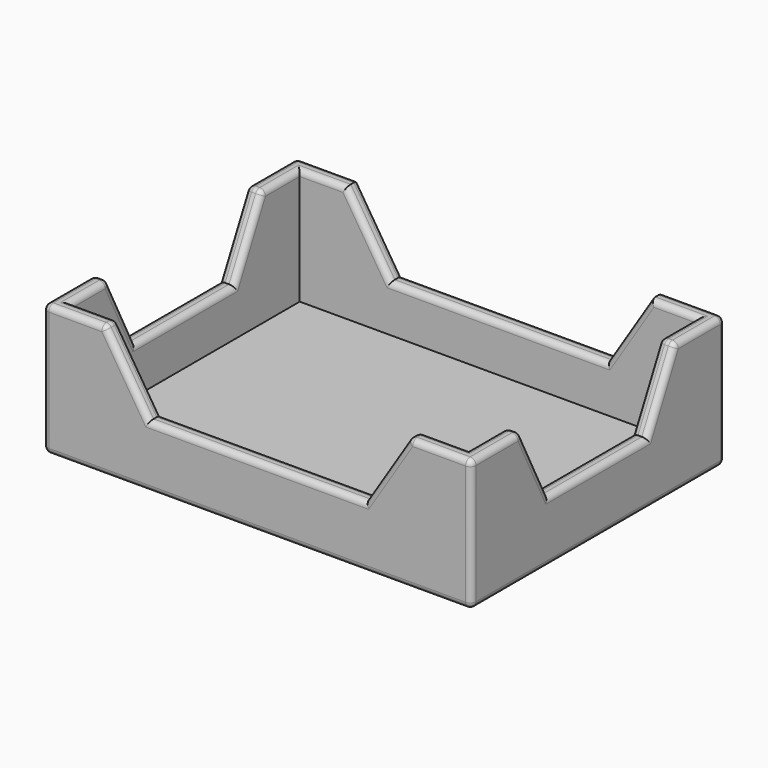
from build123d import *

# Parameters (mm, degrees)
F0_W     = 55.4
F0_H     = 41
F0_W_2   = 51.4
F0_H_2   = 37
F1_DEPTH = 15
F2_DEPTH = 2
F4_DEPTH = 41.001
F6_DEPTH = 55.401
F7_R     = 0.75


with BuildPart() as f1:
    # F0 (on Top) → F1 (new body)
    with BuildSketch(Plane.XY):
        Rectangle(F0_W, F0_H)
        Rectangle(F0_W_2, F0_H_2, mode=Mode.SUBTRACT)
    extrude(amount=F1_DEPTH)

    # F0 (on Top) → F2 (join)
    with BuildSketch(Plane.XY):
        Rectangle(F0_W, F0_H)
        Rectangle(F0_W_2, F0_H_2, mode=Mode.SUBTRACT)
        Rectangle(F0_W_2, F0_H_2)
    extrude(amount=-F2_DEPTH)

    # F3 (on face) → F4 (cut, through all)
    with BuildSketch(Plane.XZ.offset(20.5)):
        Polygon((19.7, 15), (-19.7, 15), (-14, 6), (14, 6), align=None)
    extrude(amount=-F4_DEPTH, mode=Mode.SUBTRACT)

    # F5 (on face) → F6 (cut, through all)
    with BuildSketch(Plane(origin=(-27.7, 0, 0), x_dir=(0, -1, 0), z_dir=(-1, 0, 0))):
        Polygon((12.5, 15), (-12.5, 15), (-8.0000100486, 6), (8.0000100486, 6), align=None)
    extrude(amount=-F6_DEPTH, mode=Mode.SUBTRACT)

    # F7
    f7_edges = [f1.edges().sort_by_distance(p)[0] for p in [
        (0, 20.5, 6),
        (16.85, 20.5, 10.5),
        (23.7, 20.5, 15),
        (27.7, 16.5, 15),
        (27.7, 20.5, 6.5),
        (-16.85, 20.5, 10.5),
        (-23.7, 20.5, 15),
        (-27.7, 20.5, 6.5),
        (-27.7, 16.5, 15),
        (-25.7, 15.5, 15),
        (-22.7, 18.5, 15),
        (-16.85, 18.5, 10.5),
        (0, 18.5, 6),
        (16.85, 18.5, 10.5),
        (22.7, 18.5, 15),
        (25.7, 15.5, 15),
        (26.7, 12.5, 15),
        (27.7, 10.250005, 10.5),
        (25.7, 10.250005, 10.5),
        (25.7, 0, 6),
        (27.7, 0, 6),
        (27.7, -10.250005, 10.5),
        (25.7, -10.250005, 10.5),
        (26.7, -12.5, 15),
        (27.7, -16.5, 15),
        (25.7, -15.5, 15),
        (22.7, -18.5, 15),
        (23.7, -20.5, 15),
        (27.7, -20.5, 6.5),
        (19.7, -19.5, 15),
        (16.85, -18.5, 10.5),
        (16.85, -20.5, 10.5),
        (0, -20.5, 6),
        (0, -18.5, 6),
        (-16.85, -18.5, 10.5),
        (-16.85, -20.5, 10.5),
        (-19.7, -19.5, 15),
        (-22.7, -18.5, 15),
        (-23.7, -20.5, 15),
        (-25.7, -15.5, 15),
        (-26.7, -12.5, 15),
        (-27.7, -16.5, 15),
        (-25.7, -10.250005, 10.5),
        (-27.7, -10.250005, 10.5),
        (-26.7, 12.5, 15),
        (-27.7, 0, 6),
        (-25.7, 0, 6),
        (-25.7, 10.250005, 10.5),
        (-27.7, 10.250005, 10.5),
        (-27.7, -20.5, 6.5),
        (-27.7, 0, -2),
        (0, 20.5, -2),
        (0, -20.5, -2),
        (27.7, 0, -2),
    ]]
    fillet(f7_edges, radius=F7_R)


solid = f1.part
